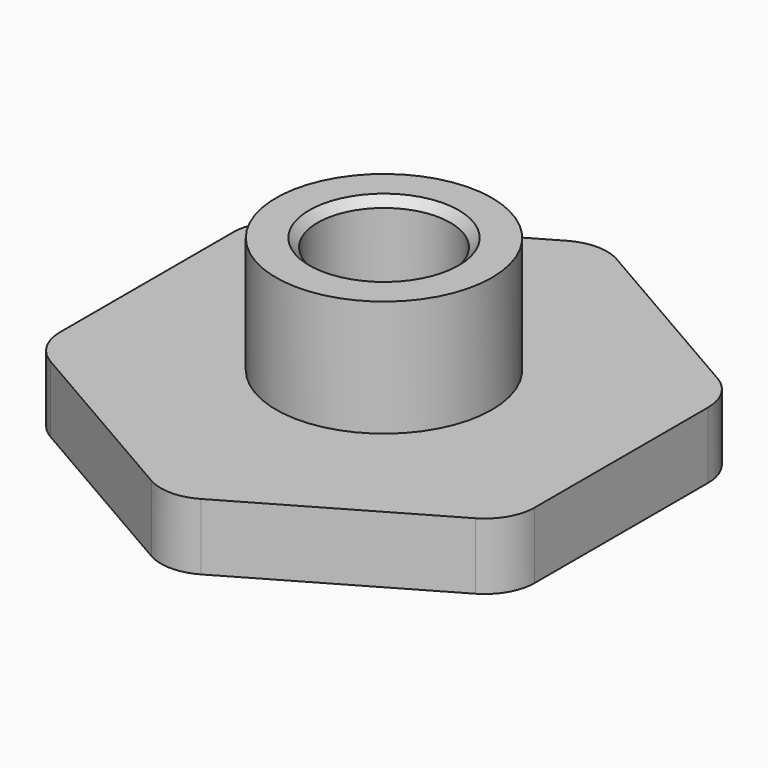
from build123d import *

# Parameters (mm, degrees)
SKETCH_R      = 4
PAD_DEPTH     = 4
SKETCH001_R   = 6.5
SKETCH001_R_2 = 4
PAD001_DEPTH  = 7
CHAMFER_SIZE  = 0.5
FILLET_R      = 3


with BuildPart() as part:
    # Sketch → Pad (new body)
    with BuildSketch(Plane.XY):
        Polygon((0, 16.5), (-14.289419, 8.25), (-14.289419, -8.25), (0, -16.5), (14.289419, -8.25), (14.289419, 8.25), align=None)
        Circle(SKETCH_R, mode=Mode.SUBTRACT)
    extrude(amount=PAD_DEPTH)

    # Sketch001 (on Face9 of Pad) → Pad001 (join)
    with BuildSketch(Plane.XY.offset(4)):
        Circle(SKETCH001_R)
        Circle(SKETCH001_R_2, mode=Mode.SUBTRACT)
    extrude(amount=PAD001_DEPTH)

    # Chamfer
    chamfer_edges = [part.edges().sort_by_distance(p)[0] for p in [
        (-4, 0, 11),
    ]]
    chamfer(chamfer_edges, length=CHAMFER_SIZE)

    # Fillet
    fillet_edges = [part.edges().sort_by_distance(p)[0] for p in [
        (0, -16.5, 2),
        (14.289419, -8.25, 2),
        (14.289419, 8.25, 2),
        (-14.289419, -8.25, 2),
        (-14.289419, 8.25, 2),
        (0, 16.5, 2),
    ]]
    fillet(fillet_edges, radius=FILLET_R)


solid = part.part
